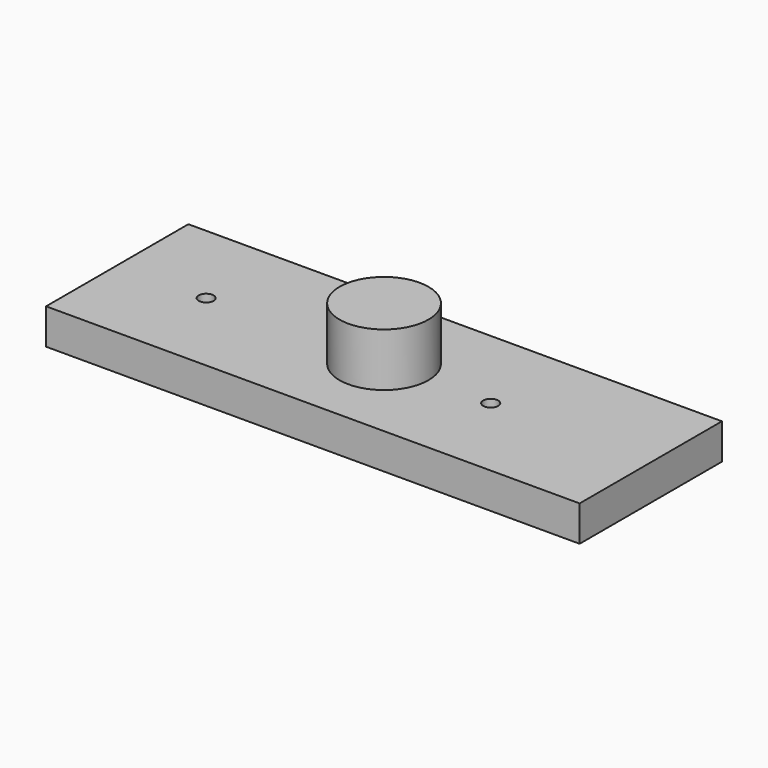
from build123d import *

# Parameters (mm, degrees)
F0_W     = 150
F0_H     = 50
F1_DEPTH = 10
F2_R     = 12.5
F3_DEPTH = 15
F5_D     = 4.2


with BuildPart() as f1:
    # F0 (on Top) → F1 (new body)
    with BuildSketch(Plane.XY):
        Rectangle(F0_W, F0_H)
    extrude(amount=F1_DEPTH)

    # F2 (on face) → F3 (join)
    with BuildSketch(Plane.XY.offset(10)):
        Circle(F2_R)
    extrude(amount=F3_DEPTH)

    # F5 (through all)
    with Locations(Plane.XY.offset(10)):
        with Locations((-50, 0), (30, 0)):
            Hole(F5_D / 2)


solid = f1.part
